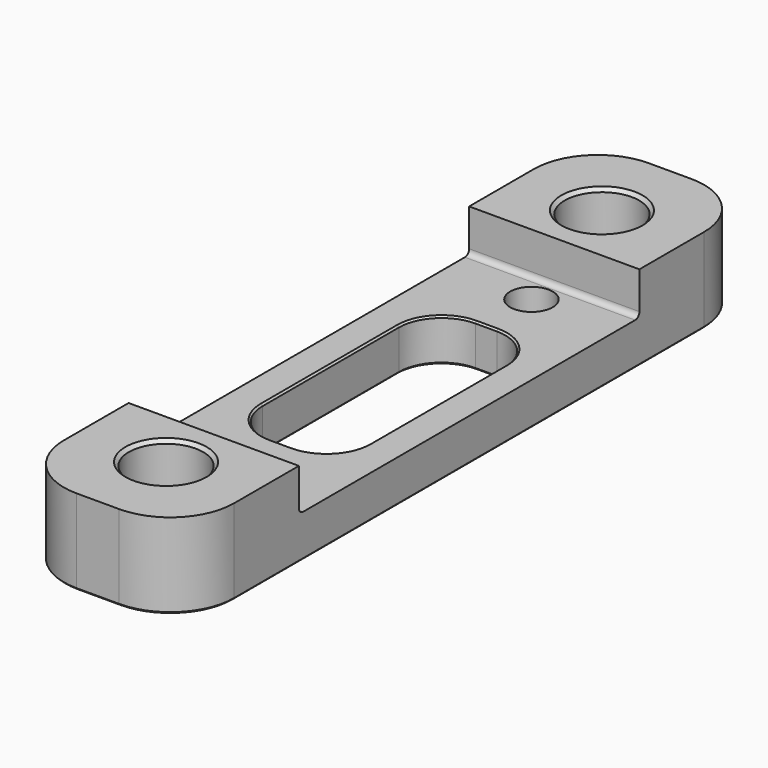
from build123d import *

# Parameters (mm, degrees)
F0_W     = 25.4
F0_H     = 106.68
F1_DEPTH = 12.7
F3_DEPTH = 27.94
F4_R     = 3.175
F5_DEPTH = 25.4
F6_R     = 5.55625
F7_DEPTH = 25.4
F9_DEPTH = 25.4
F10_SIZE = 0.508
F11_SIZE = 0.254
F12_R    = 9.525
F13_SIZE = 0.254


with BuildPart() as f1:
    # F0 (on Top) → F1 (new body)
    with BuildSketch(Plane.XY):
        with Locations((12.7, 53.34)):
            Rectangle(F0_W, F0_H)
    extrude(amount=F1_DEPTH)

    # F2 (on Right) → F3 (cut)
    with BuildSketch(Plane.YZ):
        with BuildLine():
            ThreePointArc((21.59, 7.14375), (21.8224839924, 6.5824839924), (22.38375, 6.35))
            Line((22.38375, 6.35), (84.29625, 6.35))
            ThreePointArc((84.29625, 6.35), (84.8575160076, 6.5824839924), (85.09, 7.14375))
            Line((85.09, 7.14375), (85.09, 19.05))
            Line((85.09, 19.05), (21.59, 19.05))
            Line((21.59, 19.05), (21.59, 7.14375))
        make_face()
    extrude(amount=F3_DEPTH, mode=Mode.SUBTRACT)

    # F4 (on Top) → F5 (cut)
    with BuildSketch(Plane.XY):
        with Locations((12.7, 80.8355)):
            Circle(F4_R)
        with Locations((12.7, 25.8445)):
            Circle(F4_R)
    extrude(amount=F5_DEPTH, mode=Mode.SUBTRACT)

    # F6 (on Top) → F7 (cut)
    with BuildSketch(Plane.XY):
        with Locations((12.7, 93.98)):
            Circle(F6_R)
        with Locations((12.7, 12.7)):
            Circle(F6_R)
    extrude(amount=F7_DEPTH, mode=Mode.SUBTRACT)

    # F8 (on Top) → F9 (cut)
    with BuildSketch(Plane.XY):
        with BuildLine():
            Line((14.2875, 72.39), (11.1125, 72.39))
            ThreePointArc((11.1125, 72.39), (6.6223719395, 70.5301280605), (4.7625, 66.04))
            Line((4.7625, 66.04), (4.7625, 40.64))
            ThreePointArc((4.7625, 40.64), (6.6223719395, 36.1498719395), (11.1125, 34.29))
            Line((11.1125, 34.29), (14.2875, 34.29))
            ThreePointArc((14.2875, 34.29), (18.7776280605, 36.1498719395), (20.6375, 40.64))
            Line((20.6375, 40.64), (20.6375, 66.04))
            ThreePointArc((20.6375, 66.04), (18.7776280605, 70.5301280605), (14.2875, 72.39))
        make_face()
    extrude(amount=F9_DEPTH, mode=Mode.SUBTRACT)

    # F10
    f10_edges = [f1.edges().sort_by_distance(p)[0] for p in [
        (7.14375, 12.7, 0),
        (7.14375, 93.98, 0),
        (9.525, 80.8355, 0),
        (9.525, 25.8445, 0),
        (7.14375, 93.98, 12.7),
        (7.14375, 12.7, 12.7),
    ]]
    chamfer(f10_edges, length=F10_SIZE)

    # F11
    f11_edges = [f1.edges().sort_by_distance(p)[0] for p in [
        (4.7625, 53.34, 0),
        (20.6375, 53.34, 6.35),
    ]]
    chamfer(f11_edges, length=F11_SIZE)

    # F12
    f12_edges = [f1.edges().sort_by_distance(p)[0] for p in [
        (25.4, 0, 6.35),
        (0, 0, 6.35),
        (25.4, 106.68, 6.35),
        (0, 106.68, 6.35),
    ]]
    fillet(f12_edges, radius=F12_R)

    # F13
    f13_edges = [f1.edges().sort_by_distance(p)[0] for p in [
        (0, 53.34, 0),
    ]]
    chamfer(f13_edges, length=F13_SIZE)


solid = f1.part
